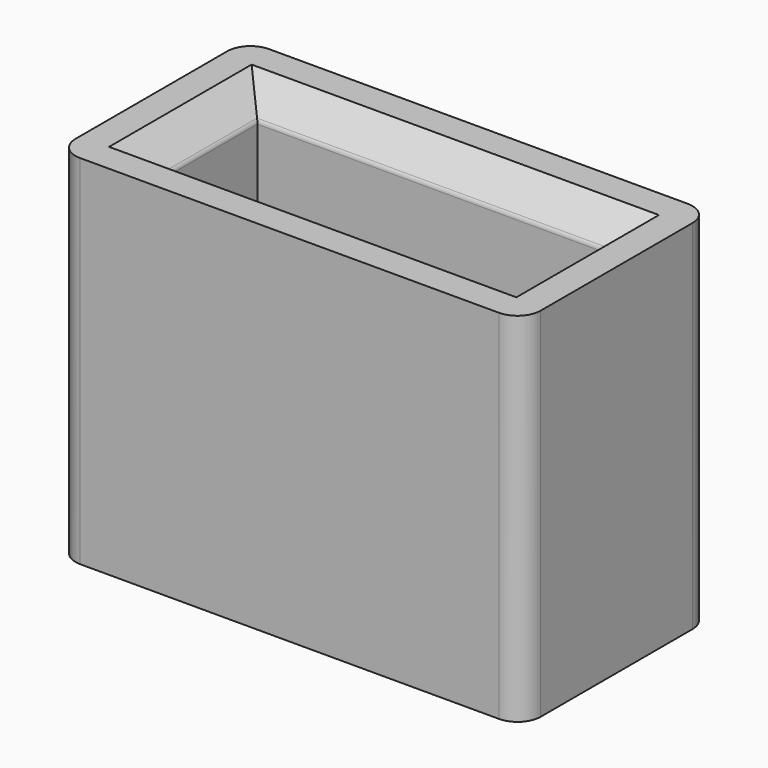
from build123d import *

# Parameters (mm, degrees)
F0_W     = 40.2
F0_H     = 20.4
F0_W_2   = 30.2
F0_H_2   = 10.4
F1_DEPTH = 30.9
F2_SIZE  = 2.5
F3_R     = 2
F4_R     = 0.5


with BuildPart() as f1:
    # F0 (on Top) → F1 (new body)
    with BuildSketch(Plane.XY):
        Rectangle(F0_W, F0_H)
        Rectangle(F0_W_2, F0_H_2, mode=Mode.SUBTRACT)
    extrude(amount=F1_DEPTH)

    # F2
    f2_edges = [f1.edges().sort_by_distance(p)[0] for p in [
        (-15.1, 0, 0),
        (0, -5.2, 0),
        (15.1, 0, 0),
        (0, 5.2, 0),
        (-15.1, 0, 30.9),
        (0, 5.2, 30.9),
        (15.1, 0, 30.9),
        (0, -5.2, 30.9),
    ]]
    chamfer(f2_edges, length=F2_SIZE)

    # F3
    f3_edges = [f1.edges().sort_by_distance(p)[0] for p in [
        (-20.1, -10.2, 15.45),
        (-20.1, 10.2, 15.45),
        (20.1, -10.2, 15.45),
        (20.1, 10.2, 15.45),
    ]]
    fillet(f3_edges, radius=F3_R)

    # F4
    f4_edges = [f1.edges().sort_by_distance(p)[0] for p in [
        (-15.1, 0, 28.4),
        (0, 5.2, 28.4),
        (15.1, 0, 28.4),
        (0, -5.2, 28.4),
        (0, 5.2, 2.5),
        (-15.1, 0, 2.5),
        (15.1, 0, 2.5),
        (0, -5.2, 2.5),
    ]]
    fillet(f4_edges, radius=F4_R)


solid = f1.part
